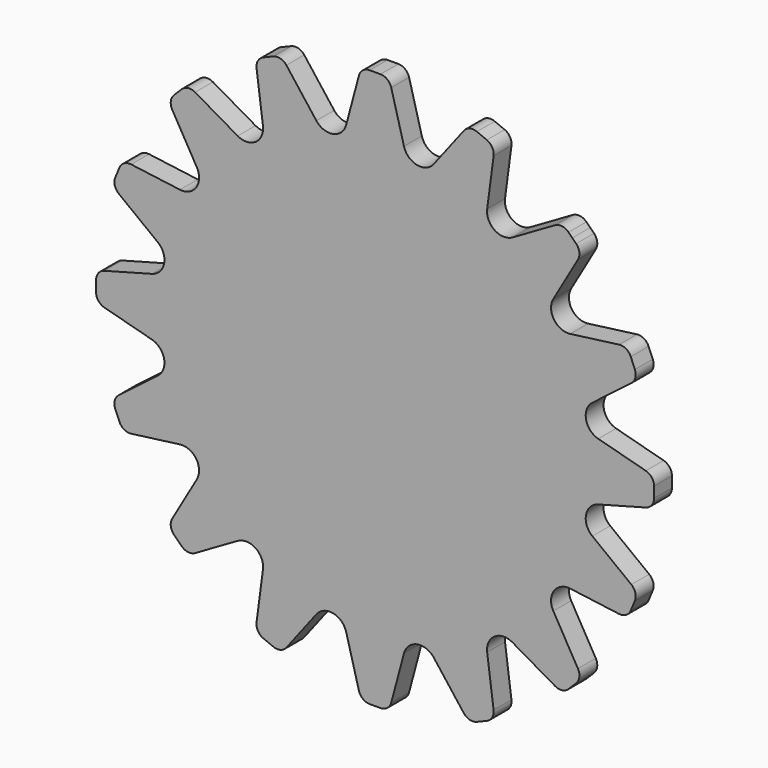
from build123d import *

# Parameters (mm, degrees)
F1_DEPTH = 2.54


with BuildPart() as f1:
    # F0 (on Front) → F1 (new body)
    with BuildSketch(Plane.XZ):
        with BuildLine():
            Line((-1.839721, 30.8087), (-3.288977, 25.4))
            ThreePointArc((-3.288977, 25.4), (-4.775443, 24.007773), (-6.68154, 24.725177))
            Line((-6.68154, 24.725177), (-10.090299, 29.167558))
            ThreePointArc((-10.090299, 29.167558), (-10.769158, 29.621157), (-11.583866, 29.567758))
            Line((-11.583866, 29.567758), (-12.150199, 29.333175))
            Line((-12.150199, 29.333175), (-12.716532, 29.098592))
            ThreePointArc((-12.716532, 29.098592), (-13.330377, 28.560265), (-13.489659, 27.759497))
            Line((-13.489659, 27.759497), (-12.758778, 22.207903))
            ThreePointArc((-12.758778, 22.207903), (-13.599311, 20.352807), (-15.634854, 20.28617))
            Line((-15.634854, 20.28617), (-20.484162, 23.08592))
            ThreePointArc((-20.484162, 23.08592), (-21.28493, 23.245202), (-22.017188, 22.884093))
            Line((-22.017188, 22.884093), (-22.45064, 22.45064))
            Line((-22.45064, 22.45064), (-22.884093, 22.017188))
            ThreePointArc((-22.884093, 22.017188), (-23.245202, 21.28493), (-23.08592, 20.484162))
            Line((-23.08592, 20.484162), (-20.28617, 15.634854))
            ThreePointArc((-20.28617, 15.634854), (-20.352807, 13.599311), (-22.207903, 12.758778))
            Line((-22.207903, 12.758778), (-27.759497, 13.489659))
            ThreePointArc((-27.759497, 13.489659), (-28.560265, 13.330377), (-29.098592, 12.716532))
            Line((-29.098592, 12.716532), (-29.333175, 12.150199))
            Line((-29.333175, 12.150199), (-29.567758, 11.583866))
            ThreePointArc((-29.567758, 11.583866), (-29.621157, 10.769158), (-29.167558, 10.090299))
            Line((-29.167558, 10.090299), (-24.725177, 6.68154))
            ThreePointArc((-24.725177, 6.68154), (-24.007773, 4.775443), (-25.4, 3.288977))
            Line((-25.4, 3.288977), (-30.8087, 1.839721))
            ThreePointArc((-30.8087, 1.839721), (-31.487559, 1.386122), (-31.75, 0.612995))
            Line((-31.75, 0.612995), (-31.75, 0))
            Line((-31.75, 0), (-31.75, -0.612995))
            ThreePointArc((-31.75, -0.612995), (-31.487559, -1.386122), (-30.8087, -1.839721))
            Line((-30.8087, -1.839721), (-25.4, -3.288977))
            ThreePointArc((-25.4, -3.288977), (-24.007773, -4.775443), (-24.725177, -6.68154))
            Line((-24.725177, -6.68154), (-29.167558, -10.090299))
            ThreePointArc((-29.167558, -10.090299), (-29.621157, -10.769158), (-29.567758, -11.583866))
            Line((-29.567758, -11.583866), (-29.333175, -12.150199))
            Line((-29.333175, -12.150199), (-29.098592, -12.716532))
            ThreePointArc((-29.098592, -12.716532), (-28.560265, -13.330377), (-27.759497, -13.489659))
            Line((-27.759497, -13.489659), (-22.207903, -12.758778))
            ThreePointArc((-22.207903, -12.758778), (-20.352807, -13.599311), (-20.28617, -15.634854))
            Line((-20.28617, -15.634854), (-23.08592, -20.484162))
            ThreePointArc((-23.08592, -20.484162), (-23.245202, -21.28493), (-22.884093, -22.017188))
            Line((-22.884093, -22.017188), (-22.45064, -22.45064))
            Line((-22.45064, -22.45064), (-22.017188, -22.884093))
            ThreePointArc((-22.017188, -22.884093), (-21.28493, -23.245202), (-20.484162, -23.08592))
            Line((-20.484162, -23.08592), (-15.634854, -20.28617))
            ThreePointArc((-15.634854, -20.28617), (-13.599311, -20.352807), (-12.758778, -22.207903))
            Line((-12.758778, -22.207903), (-13.489659, -27.759497))
            ThreePointArc((-13.489659, -27.759497), (-13.330377, -28.560265), (-12.716532, -29.098592))
            Line((-12.716532, -29.098592), (-12.150199, -29.333175))
            Line((-12.150199, -29.333175), (-11.583866, -29.567758))
            ThreePointArc((-11.583866, -29.567758), (-10.769158, -29.621157), (-10.090299, -29.167558))
            Line((-10.090299, -29.167558), (-6.68154, -24.725177))
            ThreePointArc((-6.68154, -24.725177), (-4.775443, -24.007773), (-3.288977, -25.4))
            Line((-3.288977, -25.4), (-1.839721, -30.8087))
            ThreePointArc((-1.839721, -30.8087), (-1.386122, -31.487559), (-0.612995, -31.75))
            Line((-0.612995, -31.75), (0, -31.75))
            Line((0, -31.75), (0.612995, -31.75))
            ThreePointArc((0.612995, -31.75), (1.386122, -31.487559), (1.839721, -30.8087))
            Line((1.839721, -30.8087), (3.288977, -25.4))
            ThreePointArc((3.288977, -25.4), (4.775443, -24.007773), (6.68154, -24.725177))
            Line((6.68154, -24.725177), (10.090299, -29.167558))
            ThreePointArc((10.090299, -29.167558), (10.769158, -29.621157), (11.583866, -29.567758))
            Line((11.583866, -29.567758), (12.150199, -29.333175))
            Line((12.150199, -29.333175), (12.716532, -29.098592))
            ThreePointArc((12.716532, -29.098592), (13.330377, -28.560265), (13.489659, -27.759497))
            Line((13.489659, -27.759497), (12.758778, -22.207903))
            ThreePointArc((12.758778, -22.207903), (13.599311, -20.352807), (15.634854, -20.28617))
            Line((15.634854, -20.28617), (20.484162, -23.08592))
            ThreePointArc((20.484162, -23.08592), (21.28493, -23.245202), (22.017188, -22.884093))
            Line((22.017188, -22.884093), (22.45064, -22.45064))
            Line((22.45064, -22.45064), (22.884093, -22.017188))
            ThreePointArc((22.884093, -22.017188), (23.245202, -21.28493), (23.08592, -20.484162))
            Line((23.08592, -20.484162), (20.28617, -15.634854))
            ThreePointArc((20.28617, -15.634854), (20.352807, -13.599311), (22.207903, -12.758778))
            Line((22.207903, -12.758778), (27.759497, -13.489659))
            ThreePointArc((27.759497, -13.489659), (28.560265, -13.330377), (29.098592, -12.716532))
            Line((29.098592, -12.716532), (29.333175, -12.150199))
            Line((29.333175, -12.150199), (29.567758, -11.583866))
            ThreePointArc((29.567758, -11.583866), (29.621157, -10.769158), (29.167558, -10.090299))
            Line((29.167558, -10.090299), (24.725177, -6.68154))
            ThreePointArc((24.725177, -6.68154), (24.007773, -4.775443), (25.4, -3.288977))
            Line((25.4, -3.288977), (30.8087, -1.839721))
            ThreePointArc((30.8087, -1.839721), (31.487559, -1.386122), (31.75, -0.612995))
            Line((31.75, -0.612995), (31.75, 0))
            Line((31.75, 0), (31.75, 0.612995))
            ThreePointArc((31.75, 0.612995), (31.487559, 1.386122), (30.8087, 1.839721))
            Line((30.8087, 1.839721), (25.4, 3.288977))
            ThreePointArc((25.4, 3.288977), (24.007773, 4.775443), (24.725177, 6.68154))
            Line((24.725177, 6.68154), (29.167558, 10.090299))
            ThreePointArc((29.167558, 10.090299), (29.621157, 10.769158), (29.567758, 11.583866))
            Line((29.567758, 11.583866), (29.333175, 12.150199))
            Line((29.333175, 12.150199), (29.098592, 12.716532))
            ThreePointArc((29.098592, 12.716532), (28.560265, 13.330377), (27.759497, 13.489659))
            Line((27.759497, 13.489659), (22.207903, 12.758778))
            ThreePointArc((22.207903, 12.758778), (20.352807, 13.599311), (20.28617, 15.634854))
            Line((20.28617, 15.634854), (23.08592, 20.484162))
            ThreePointArc((23.08592, 20.484162), (23.245202, 21.28493), (22.884093, 22.017188))
            Line((22.884093, 22.017188), (22.45064, 22.45064))
            Line((22.45064, 22.45064), (22.017188, 22.884093))
            ThreePointArc((22.017188, 22.884093), (21.28493, 23.245202), (20.484162, 23.08592))
            Line((20.484162, 23.08592), (15.634854, 20.28617))
            ThreePointArc((15.634854, 20.28617), (13.599311, 20.352807), (12.758778, 22.207903))
            Line((12.758778, 22.207903), (13.489659, 27.759497))
            ThreePointArc((13.489659, 27.759497), (13.330377, 28.560265), (12.716532, 29.098592))
            Line((12.716532, 29.098592), (12.150199, 29.333175))
            Line((12.150199, 29.333175), (11.583866, 29.567758))
            ThreePointArc((11.583866, 29.567758), (10.769158, 29.621157), (10.090299, 29.167558))
            Line((10.090299, 29.167558), (6.68154, 24.725177))
            ThreePointArc((6.68154, 24.725177), (4.775443, 24.007773), (3.288977, 25.4))
            Line((3.288977, 25.4), (1.839721, 30.8087))
            ThreePointArc((1.839721, 30.8087), (1.386122, 31.487559), (0.612995, 31.75))
            Line((0.612995, 31.75), (0, 31.75))
            Line((0, 31.75), (-0.612995, 31.75))
            ThreePointArc((-0.612995, 31.75), (-1.386122, 31.487559), (-1.839721, 30.8087))
        make_face()
        with BuildLine():
            Line((-1.839721, 30.8087), (-3.288977, 25.4))
            ThreePointArc((-3.288977, 25.4), (-4.775443, 24.007773), (-6.68154, 24.725177))
            Line((-6.68154, 24.725177), (-10.090299, 29.167558))
            ThreePointArc((-10.090299, 29.167558), (-10.769158, 29.621157), (-11.583866, 29.567758))
            Line((-11.583866, 29.567758), (-12.150199, 29.333175))
            Line((-12.150199, 29.333175), (-12.716532, 29.098592))
            ThreePointArc((-12.716532, 29.098592), (-13.330377, 28.560265), (-13.489659, 27.759497))
            Line((-13.489659, 27.759497), (-12.758778, 22.207903))
            ThreePointArc((-12.758778, 22.207903), (-13.599311, 20.352807), (-15.634854, 20.28617))
            Line((-15.634854, 20.28617), (-20.484162, 23.08592))
            ThreePointArc((-20.484162, 23.08592), (-21.28493, 23.245202), (-22.017188, 22.884093))
            Line((-22.017188, 22.884093), (-22.45064, 22.45064))
            Line((-22.45064, 22.45064), (-22.884093, 22.017188))
            ThreePointArc((-22.884093, 22.017188), (-23.245202, 21.28493), (-23.08592, 20.484162))
            Line((-23.08592, 20.484162), (-20.28617, 15.634854))
            ThreePointArc((-20.28617, 15.634854), (-20.352807, 13.599311), (-22.207903, 12.758778))
            Line((-22.207903, 12.758778), (-27.759497, 13.489659))
            ThreePointArc((-27.759497, 13.489659), (-28.560265, 13.330377), (-29.098592, 12.716532))
            Line((-29.098592, 12.716532), (-29.333175, 12.150199))
            Line((-29.333175, 12.150199), (-29.567758, 11.583866))
            ThreePointArc((-29.567758, 11.583866), (-29.621157, 10.769158), (-29.167558, 10.090299))
            Line((-29.167558, 10.090299), (-24.725177, 6.68154))
            ThreePointArc((-24.725177, 6.68154), (-24.007773, 4.775443), (-25.4, 3.288977))
            Line((-25.4, 3.288977), (-30.8087, 1.839721))
            ThreePointArc((-30.8087, 1.839721), (-31.487559, 1.386122), (-31.75, 0.612995))
            Line((-31.75, 0.612995), (-31.75, 0))
            Line((-31.75, 0), (-31.75, -0.612995))
            ThreePointArc((-31.75, -0.612995), (-31.487559, -1.386122), (-30.8087, -1.839721))
            Line((-30.8087, -1.839721), (-25.4, -3.288977))
            ThreePointArc((-25.4, -3.288977), (-24.007773, -4.775443), (-24.725177, -6.68154))
            Line((-24.725177, -6.68154), (-29.167558, -10.090299))
            ThreePointArc((-29.167558, -10.090299), (-29.621157, -10.769158), (-29.567758, -11.583866))
            Line((-29.567758, -11.583866), (-29.333175, -12.150199))
            Line((-29.333175, -12.150199), (-29.098592, -12.716532))
            ThreePointArc((-29.098592, -12.716532), (-28.560265, -13.330377), (-27.759497, -13.489659))
            Line((-27.759497, -13.489659), (-22.207903, -12.758778))
            ThreePointArc((-22.207903, -12.758778), (-20.352807, -13.599311), (-20.28617, -15.634854))
            Line((-20.28617, -15.634854), (-23.08592, -20.484162))
            ThreePointArc((-23.08592, -20.484162), (-23.245202, -21.28493), (-22.884093, -22.017188))
            Line((-22.884093, -22.017188), (-22.45064, -22.45064))
            Line((-22.45064, -22.45064), (-22.017188, -22.884093))
            ThreePointArc((-22.017188, -22.884093), (-21.28493, -23.245202), (-20.484162, -23.08592))
            Line((-20.484162, -23.08592), (-15.634854, -20.28617))
            ThreePointArc((-15.634854, -20.28617), (-13.599311, -20.352807), (-12.758778, -22.207903))
            Line((-12.758778, -22.207903), (-13.489659, -27.759497))
            ThreePointArc((-13.489659, -27.759497), (-13.330377, -28.560265), (-12.716532, -29.098592))
            Line((-12.716532, -29.098592), (-12.150199, -29.333175))
            Line((-12.150199, -29.333175), (-11.583866, -29.567758))
            ThreePointArc((-11.583866, -29.567758), (-10.769158, -29.621157), (-10.090299, -29.167558))
            Line((-10.090299, -29.167558), (-6.68154, -24.725177))
            ThreePointArc((-6.68154, -24.725177), (-4.775443, -24.007773), (-3.288977, -25.4))
            Line((-3.288977, -25.4), (-1.839721, -30.8087))
            ThreePointArc((-1.839721, -30.8087), (-1.386122, -31.487559), (-0.612995, -31.75))
            Line((-0.612995, -31.75), (0, -31.75))
            Line((0, -31.75), (0.612995, -31.75))
            ThreePointArc((0.612995, -31.75), (1.386122, -31.487559), (1.839721, -30.8087))
            Line((1.839721, -30.8087), (3.288977, -25.4))
            ThreePointArc((3.288977, -25.4), (4.775443, -24.007773), (6.68154, -24.725177))
            Line((6.68154, -24.725177), (10.090299, -29.167558))
            ThreePointArc((10.090299, -29.167558), (10.769158, -29.621157), (11.583866, -29.567758))
            Line((11.583866, -29.567758), (12.150199, -29.333175))
            Line((12.150199, -29.333175), (12.716532, -29.098592))
            ThreePointArc((12.716532, -29.098592), (13.330377, -28.560265), (13.489659, -27.759497))
            Line((13.489659, -27.759497), (12.758778, -22.207903))
            ThreePointArc((12.758778, -22.207903), (13.599311, -20.352807), (15.634854, -20.28617))
            Line((15.634854, -20.28617), (20.484162, -23.08592))
            ThreePointArc((20.484162, -23.08592), (21.28493, -23.245202), (22.017188, -22.884093))
            Line((22.017188, -22.884093), (22.45064, -22.45064))
            Line((22.45064, -22.45064), (22.884093, -22.017188))
            ThreePointArc((22.884093, -22.017188), (23.245202, -21.28493), (23.08592, -20.484162))
            Line((23.08592, -20.484162), (20.28617, -15.634854))
            ThreePointArc((20.28617, -15.634854), (20.352807, -13.599311), (22.207903, -12.758778))
            Line((22.207903, -12.758778), (27.759497, -13.489659))
            ThreePointArc((27.759497, -13.489659), (28.560265, -13.330377), (29.098592, -12.716532))
            Line((29.098592, -12.716532), (29.333175, -12.150199))
            Line((29.333175, -12.150199), (29.567758, -11.583866))
            ThreePointArc((29.567758, -11.583866), (29.621157, -10.769158), (29.167558, -10.090299))
            Line((29.167558, -10.090299), (24.725177, -6.68154))
            ThreePointArc((24.725177, -6.68154), (24.007773, -4.775443), (25.4, -3.288977))
            Line((25.4, -3.288977), (30.8087, -1.839721))
            ThreePointArc((30.8087, -1.839721), (31.487559, -1.386122), (31.75, -0.612995))
            Line((31.75, -0.612995), (31.75, 0))
            Line((31.75, 0), (31.75, 0.612995))
            ThreePointArc((31.75, 0.612995), (31.487559, 1.386122), (30.8087, 1.839721))
            Line((30.8087, 1.839721), (25.4, 3.288977))
            ThreePointArc((25.4, 3.288977), (24.007773, 4.775443), (24.725177, 6.68154))
            Line((24.725177, 6.68154), (29.167558, 10.090299))
            ThreePointArc((29.167558, 10.090299), (29.621157, 10.769158), (29.567758, 11.583866))
            Line((29.567758, 11.583866), (29.333175, 12.150199))
            Line((29.333175, 12.150199), (29.098592, 12.716532))
            ThreePointArc((29.098592, 12.716532), (28.560265, 13.330377), (27.759497, 13.489659))
            Line((27.759497, 13.489659), (22.207903, 12.758778))
            ThreePointArc((22.207903, 12.758778), (20.352807, 13.599311), (20.28617, 15.634854))
            Line((20.28617, 15.634854), (23.08592, 20.484162))
            ThreePointArc((23.08592, 20.484162), (23.245202, 21.28493), (22.884093, 22.017188))
            Line((22.884093, 22.017188), (22.45064, 22.45064))
            Line((22.45064, 22.45064), (22.017188, 22.884093))
            ThreePointArc((22.017188, 22.884093), (21.28493, 23.245202), (20.484162, 23.08592))
            Line((20.484162, 23.08592), (15.634854, 20.28617))
            ThreePointArc((15.634854, 20.28617), (13.599311, 20.352807), (12.758778, 22.207903))
            Line((12.758778, 22.207903), (13.489659, 27.759497))
            ThreePointArc((13.489659, 27.759497), (13.330377, 28.560265), (12.716532, 29.098592))
            Line((12.716532, 29.098592), (12.150199, 29.333175))
            Line((12.150199, 29.333175), (11.583866, 29.567758))
            ThreePointArc((11.583866, 29.567758), (10.769158, 29.621157), (10.090299, 29.167558))
            Line((10.090299, 29.167558), (6.68154, 24.725177))
            ThreePointArc((6.68154, 24.725177), (4.775443, 24.007773), (3.288977, 25.4))
            Line((3.288977, 25.4), (1.839721, 30.8087))
            ThreePointArc((1.839721, 30.8087), (1.386122, 31.487559), (0.612995, 31.75))
            Line((0.612995, 31.75), (0, 31.75))
            Line((0, 31.75), (-0.612995, 31.75))
            ThreePointArc((-0.612995, 31.75), (-1.386122, 31.487559), (-1.839721, 30.8087))
        make_face()
    extrude(amount=F1_DEPTH)


solid = f1.part
